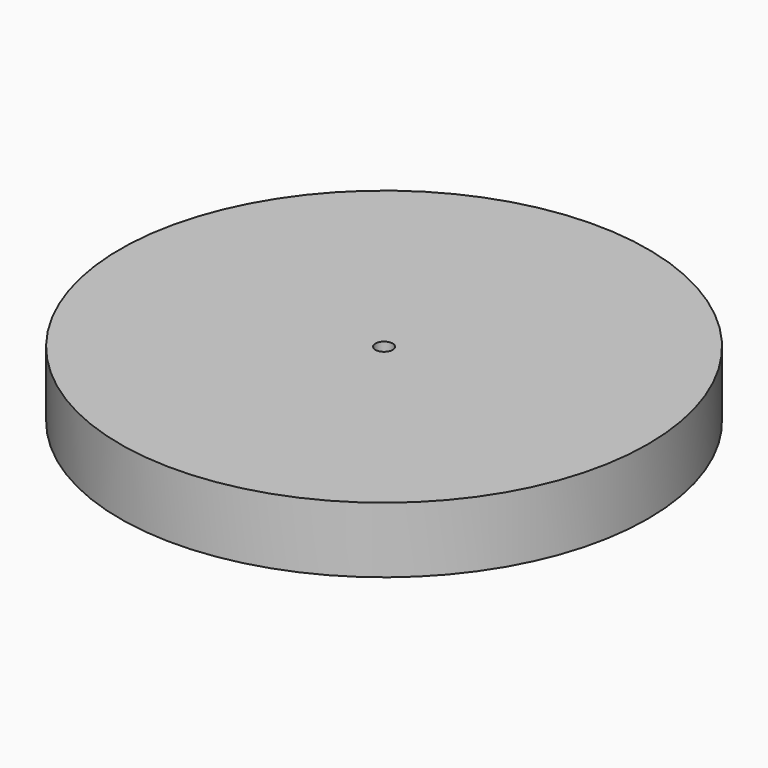
from build123d import *

# Parameters (mm, degrees)
F0_R     = 51.054
F0_R_2   = 22.352
F0_R_3   = 11.2776
F0_R_4   = 8.5979
F0_R_5   = 1.6764
F1_DEPTH = 12.7


with BuildPart() as f1:
    # F0 (on Top) → F1 (new body)
    with BuildSketch(Plane.XY):
        Circle(F0_R)
        Circle(F0_R_2, mode=Mode.SUBTRACT)
        Circle(F0_R_2)
        Circle(F0_R_3, mode=Mode.SUBTRACT)
        Circle(F0_R_3)
        Circle(F0_R_4, mode=Mode.SUBTRACT)
        Circle(F0_R_4)
        Circle(F0_R_5, mode=Mode.SUBTRACT)
    extrude(amount=F1_DEPTH)


solid = f1.part
